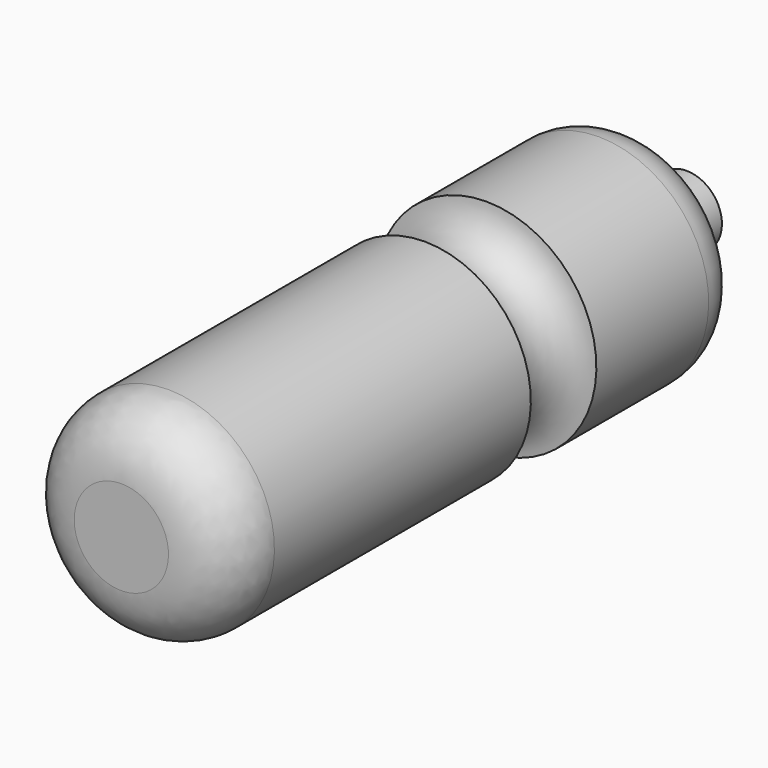
from build123d import *


with BuildPart() as f1:
    # F0 (on Right) → F1 (revolve)
    with BuildSketch(Plane.YZ):
        with BuildLine():
            Line((-204.756087, 20), (-204.756087, 0))
            Line((-204.756087, 0), (95.243913, 0))
            Line((95.243913, 0), (95.243913, 15))
            Line((95.243913, 15), (78.551713, 15))
            ThreePointArc((78.551713, 15), (71.480645, 17.928932), (68.551713, 25))
            Line((68.551713, 25), (68.551713, 26.717782))
            ThreePointArc((68.551713, 26.717782), (62.693848, 40.859917), (48.551713, 46.717782))
            Line((48.551713, 46.717782), (-11.037248, 46.717782))
            ThreePointArc((-11.037248, 46.717782), (-26.568814, 30.899643), (-43.675041, 45))
            Line((-43.675041, 45), (-179.756087, 45))
            ThreePointArc((-179.756087, 45), (-197.433757, 37.67767), (-204.756087, 20))
        make_face()
    revolve(axis=Axis((0, -4.756087, 0), (0, 1, 0)))


solid = f1.part
